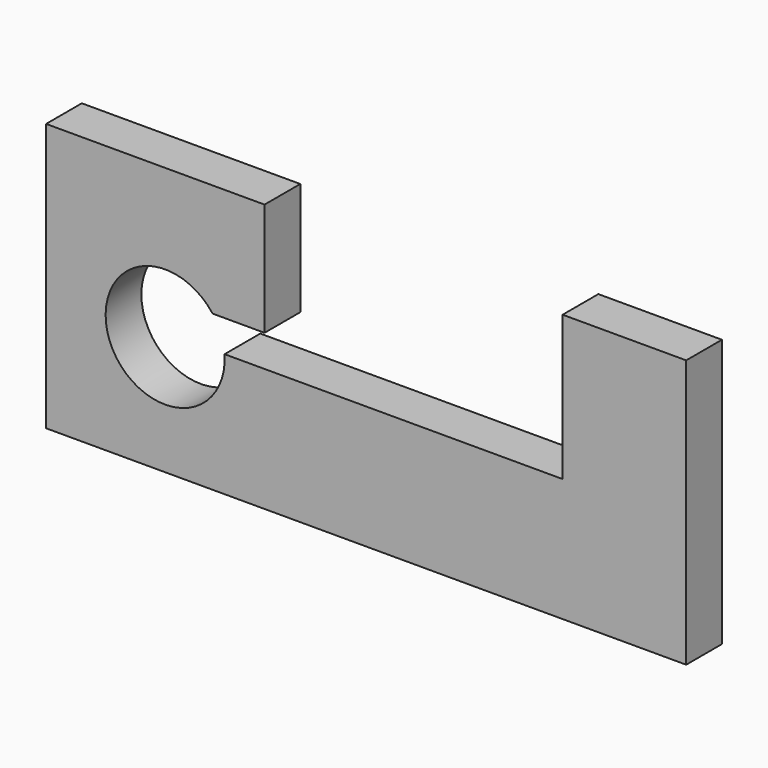
from build123d import *

# Parameters (mm, degrees)
F0_W     = 273.05
F0_H     = 114.3
F1_DEPTH = 19.05
F2_R     = 25.4
F3_DEPTH = 25.4
F4_W     = 127.1476745605
F4_H     = 61.7186785519
F5_DEPTH = 25.4
F7_DEPTH = 25.4


with BuildPart() as f1:
    # F0 (on Front) → F1 (new body)
    with BuildSketch(Plane.XZ):
        with Locations((136.525, 57.15)):
            Rectangle(F0_W, F0_H)
    extrude(amount=F1_DEPTH)

    # F2 (on face) → F3 (cut)
    with BuildSketch(Plane.XZ.offset(19.05)):
        with Locations((50.8, 50.8)):
            Circle(F2_R)
    extrude(amount=-F3_DEPTH, mode=Mode.SUBTRACT)

    # F4 (on face) → F5 (cut)
    with BuildSketch(Plane.XZ.offset(19.05)):
        with Locations((156.7656248808, 83.440660724)):
            Rectangle(F4_W, F4_H)
    extrude(amount=-F5_DEPTH, mode=Mode.SUBTRACT)

    # F6 (on face) → F7 (cut)
    with BuildSketch(Plane.XZ.offset(19.05)):
        Polygon((93.1917876005, 52.5813214481), (93.1917876005, 66.1489069462), (71.0378619315, 66.1489069462), (76.137460289, 52.5813214481), align=None)
    extrude(amount=-F7_DEPTH, mode=Mode.SUBTRACT)


solid = f1.part
